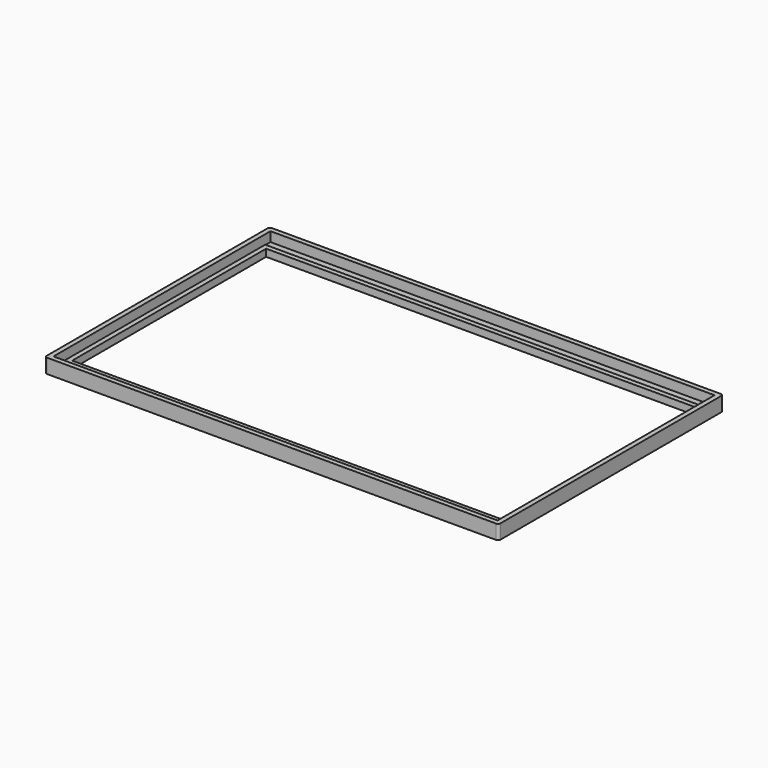
from build123d import *

# Parameters (mm, degrees)
F0_W     = 189
F0_H     = 117
F0_W_2   = 185
F0_H_2   = 113
F1_DEPTH = 6
F0_W_3   = 183.000002
F0_H_3   = 105.000002
F2_DEPTH = 2
F3_R     = 1
F0_W_4   = 179
F0_H_4   = 101
F4_DEPTH = 3


with BuildPart() as f1:
    # F0 (on Top) → F1 (new body)
    with BuildSketch(Plane.XY):
        with Locations((-1.903477, 13.021269)):
            Rectangle(F0_W, F0_H)
        with Locations((-1.903477, 13.021269)):
            Rectangle(F0_W_2, F0_H_2, mode=Mode.SUBTRACT)
    extrude(amount=F1_DEPTH)

    # F3
    f3_edges = [f1.edges().sort_by_distance(p)[0] for p in [
        (-96.403477, -45.478731, 3),
        (-96.403477, 71.521269, 3),
        (92.596523, 71.521269, 3),
        (92.596523, -45.478731, 3),
    ]]
    fillet(f3_edges, radius=F3_R)


with BuildPart() as f2:
    # F0 (on Top) → F2 (new body)
    with BuildSketch(Plane.XY):
        with Locations((-1.903477, 13.021269)):
            Rectangle(F0_W_2, F0_H_2)
        with Locations((-1.903477, 13.021269)):
            Rectangle(F0_W_3, F0_H_3, mode=Mode.SUBTRACT)
    extrude(amount=F2_DEPTH)

    # F0 (on Top) → F4 (join)
    with BuildSketch(Plane.XY):
        with Locations((-1.903477, 13.021269)):
            Rectangle(F0_W_3, F0_H_3)
        with Locations((-1.903477, 13.021269)):
            Rectangle(F0_W_4, F0_H_4, mode=Mode.SUBTRACT)
    extrude(amount=F4_DEPTH)


solid = Compound([f1.part, f2.part])
